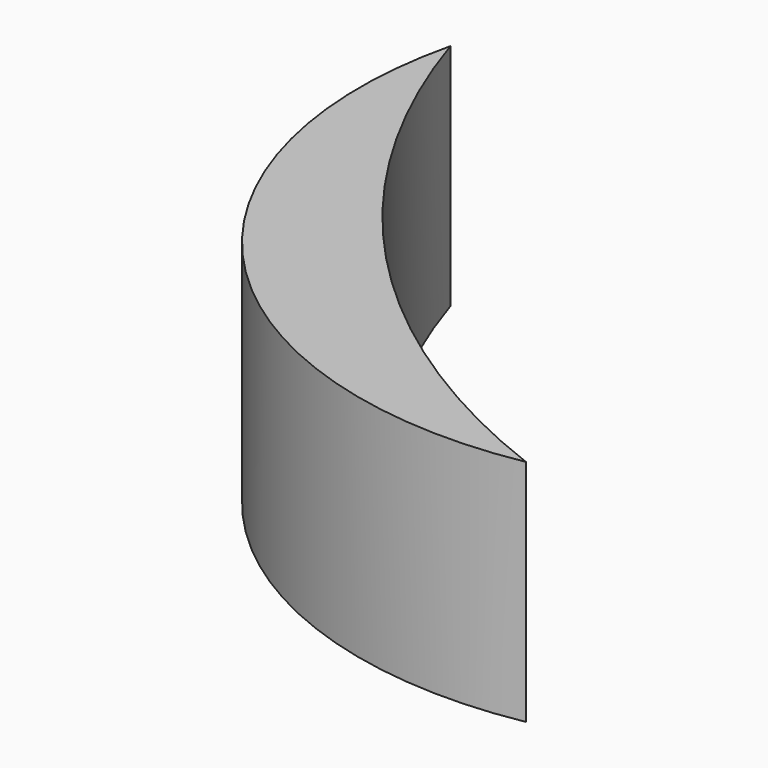
from build123d import *

# Parameters (mm, degrees)
F1_DEPTH = 8.20286


with BuildPart() as f1:
    # F0 (on Top) → F1 (new body)
    with BuildSketch(Plane.XY):
        with BuildLine():
            ThreePointArc((-38.328223, 10.789878), (-49.107291, 17.996196), (-55.720862, 29.148774))
            ThreePointArc((-55.720862, 29.148774), (-52.00624, 15.249823), (-38.328223, 10.789878))
        make_face()
    extrude(amount=F1_DEPTH)


solid = f1.part
